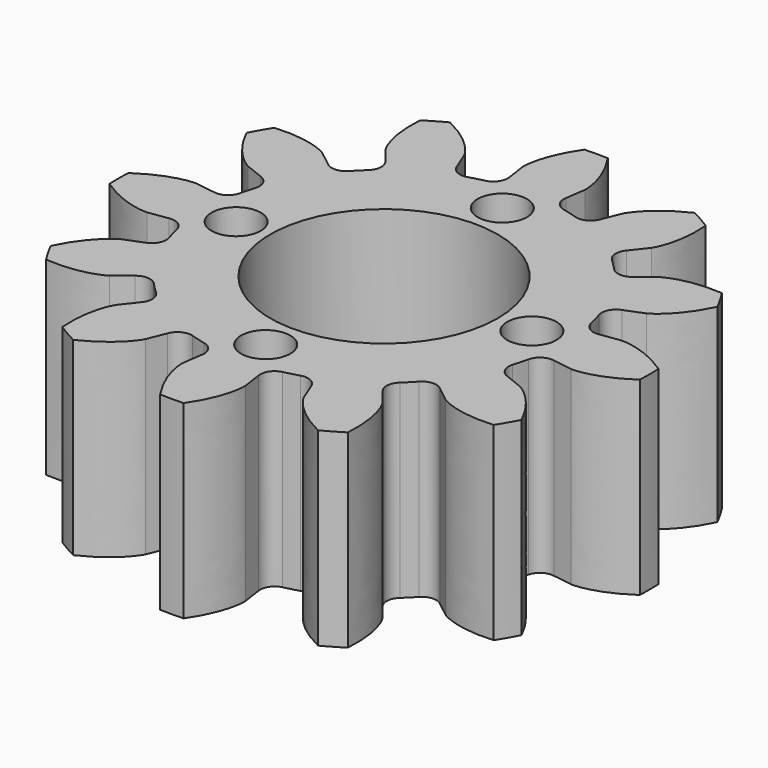
from build123d import *

# Parameters (mm, degrees)
EXTRUDE001_DEPTH   = 5
SKETCH001_R        = 3
HOLE001_DEPTH      = 25
SKETCH002_R        = 0.65
POCKET_DEPTH       = 5
POLARPATTERN_COUNT = 4


with BuildPart() as part:
    # InvoluteGear001 → Extrude001 (new body)
    with BuildSketch(Plane.XY):
        with BuildLine():
            Line((5.075568, -0.745328), (5.593622, -0.820636))
            add(Edge.make_bspline(
                [(5.593622, -0.820636), (5.662225, -0.823766), (5.937134, -0.826624), (6.422793, -0.700099), (6.993094, -0.308894)],
                knots=[0, 0, 0, 0, 0, 1, 1, 1, 1, 1], degree=4))
            ThreePointArc((6.993094, -0.308894), (6.999956, 0.000727), (6.993117, 0.310347))
            add(Edge.make_bspline(
                [(6.993117, 0.310347), (6.422793, 0.700099), (5.937134, 0.826624), (5.662225, 0.823766), (5.593622, 0.820636)],
                knots=[0, 0, 0, 0, 0, 1, 1, 1, 1, 1], degree=4))
            Line((5.593622, 0.820636), (5.075568, 0.745328))
            ThreePointArc((5.075568, 0.745328), (4.797245, 0.801779), (4.635779, 1.0354))
            ThreePointArc((4.635779, 1.0354), (4.588148, 1.22939), (4.532402, 1.421207))
            ThreePointArc((4.532402, 1.421207), (4.555425, 1.704262), (4.768234, 1.892311))
            Line((4.768234, 1.892311), (5.254537, 2.086119))
            add(Edge.make_bspline(
                [(5.254537, 2.086119), (5.315514, 2.117711), (5.555021, 2.25269), (5.912351, 2.605093), (6.210644, 3.229037)],
                knots=[0, 0, 0, 0, 0, 1, 1, 1, 1, 1], degree=4))
            ThreePointArc((6.210644, 3.229037), (6.061777, 3.500607), (5.901043, 3.765327))
            add(Edge.make_bspline(
                [(5.901043, 3.765327), (5.212252, 3.8177), (4.728397, 3.684444), (4.491748, 3.544515), (4.433901, 3.507503)],
                knots=[0, 0, 0, 0, 0, 1, 1, 1, 1, 1], degree=4))
            Line((4.433901, 3.507503), (4.022907, 3.183256))
            ThreePointArc((4.022907, 3.183256), (3.753647, 3.092983), (3.497002, 3.214572))
            ThreePointArc((3.497002, 3.214572), (3.358757, 3.358757), (3.214572, 3.497002))
            ThreePointArc((3.214572, 3.497002), (3.092983, 3.753647), (3.183256, 4.022907))
            Line((3.183256, 4.022907), (3.507503, 4.433901))
            add(Edge.make_bspline(
                [(3.507503, 4.433901), (3.544515, 4.491748), (3.684444, 4.728397), (3.8177, 5.212252), (3.764057, 5.90175)],
                knots=[0, 0, 0, 0, 0, 1, 1, 1, 1, 1], degree=4))
            ThreePointArc((3.764057, 5.90175), (3.499349, 6.062503), (3.22779, 6.211391))
            add(Edge.make_bspline(
                [(3.22779, 6.211391), (2.605093, 5.912351), (2.25269, 5.555021), (2.117711, 5.315514), (2.086119, 5.254537)],
                knots=[0, 0, 0, 0, 0, 1, 1, 1, 1, 1], degree=4))
            Line((2.086119, 5.254537), (1.892311, 4.768234))
            ThreePointArc((1.892311, 4.768234), (1.704262, 4.555425), (1.421207, 4.532402))
            ThreePointArc((1.421207, 4.532402), (1.22939, 4.588148), (1.0354, 4.635779))
            ThreePointArc((1.0354, 4.635779), (0.801779, 4.797245), (0.745328, 5.075568))
            Line((0.745328, 5.075568), (0.820636, 5.593622))
            add(Edge.make_bspline(
                [(0.820636, 5.593622), (0.823766, 5.662225), (0.826624, 5.937134), (0.700099, 6.422793), (0.308894, 6.993094)],
                knots=[0, 0, 0, 0, 0, 1, 1, 1, 1, 1], degree=4))
            ThreePointArc((0.308894, 6.993094), (-0.000727, 6.999956), (-0.310347, 6.993117))
            add(Edge.make_bspline(
                [(-0.310347, 6.993117), (-0.700099, 6.422793), (-0.826624, 5.937134), (-0.823766, 5.662225), (-0.820636, 5.593622)],
                knots=[0, 0, 0, 0, 0, 1, 1, 1, 1, 1], degree=4))
            Line((-0.820636, 5.593622), (-0.745328, 5.075568))
            ThreePointArc((-0.745328, 5.075568), (-0.801779, 4.797245), (-1.0354, 4.635779))
            ThreePointArc((-1.0354, 4.635779), (-1.22939, 4.588148), (-1.421207, 4.532402))
            ThreePointArc((-1.421207, 4.532402), (-1.704262, 4.555425), (-1.892311, 4.768234))
            Line((-1.892311, 4.768234), (-2.086119, 5.254537))
            add(Edge.make_bspline(
                [(-2.086119, 5.254537), (-2.117711, 5.315514), (-2.25269, 5.555021), (-2.605093, 5.912351), (-3.229037, 6.210644)],
                knots=[0, 0, 0, 0, 0, 1, 1, 1, 1, 1], degree=4))
            ThreePointArc((-3.229037, 6.210644), (-3.500607, 6.061777), (-3.765327, 5.901043))
            add(Edge.make_bspline(
                [(-3.765327, 5.901043), (-3.8177, 5.212252), (-3.684444, 4.728397), (-3.544515, 4.491748), (-3.507503, 4.433901)],
                knots=[0, 0, 0, 0, 0, 1, 1, 1, 1, 1], degree=4))
            Line((-3.507503, 4.433901), (-3.183256, 4.022907))
            ThreePointArc((-3.183256, 4.022907), (-3.092983, 3.753647), (-3.214572, 3.497002))
            ThreePointArc((-3.214572, 3.497002), (-3.358757, 3.358757), (-3.497002, 3.214572))
            ThreePointArc((-3.497002, 3.214572), (-3.753647, 3.092983), (-4.022907, 3.183256))
            Line((-4.022907, 3.183256), (-4.433901, 3.507503))
            add(Edge.make_bspline(
                [(-4.433901, 3.507503), (-4.491748, 3.544515), (-4.728397, 3.684444), (-5.212252, 3.8177), (-5.90175, 3.764057)],
                knots=[0, 0, 0, 0, 0, 1, 1, 1, 1, 1], degree=4))
            ThreePointArc((-5.90175, 3.764057), (-6.062503, 3.499349), (-6.211391, 3.22779))
            add(Edge.make_bspline(
                [(-6.211391, 3.22779), (-5.912351, 2.605093), (-5.555021, 2.25269), (-5.315514, 2.117711), (-5.254537, 2.086119)],
                knots=[0, 0, 0, 0, 0, 1, 1, 1, 1, 1], degree=4))
            Line((-5.254537, 2.086119), (-4.768234, 1.892311))
            ThreePointArc((-4.768234, 1.892311), (-4.555425, 1.704262), (-4.532402, 1.421207))
            ThreePointArc((-4.532402, 1.421207), (-4.588148, 1.22939), (-4.635779, 1.0354))
            ThreePointArc((-4.635779, 1.0354), (-4.797245, 0.801779), (-5.075568, 0.745328))
            Line((-5.075568, 0.745328), (-5.593622, 0.820636))
            add(Edge.make_bspline(
                [(-5.593622, 0.820636), (-5.662225, 0.823766), (-5.937134, 0.826624), (-6.422793, 0.700099), (-6.993094, 0.308894)],
                knots=[0, 0, 0, 0, 0, 1, 1, 1, 1, 1], degree=4))
            ThreePointArc((-6.993094, 0.308894), (-6.999956, -0.000727), (-6.993117, -0.310347))
            add(Edge.make_bspline(
                [(-6.993117, -0.310347), (-6.422793, -0.700099), (-5.937134, -0.826624), (-5.662225, -0.823766), (-5.593622, -0.820636)],
                knots=[0, 0, 0, 0, 0, 1, 1, 1, 1, 1], degree=4))
            Line((-5.593622, -0.820636), (-5.075568, -0.745328))
            ThreePointArc((-5.075568, -0.745328), (-4.797245, -0.801779), (-4.635779, -1.0354))
            ThreePointArc((-4.635779, -1.0354), (-4.588148, -1.22939), (-4.532402, -1.421207))
            ThreePointArc((-4.532402, -1.421207), (-4.555425, -1.704262), (-4.768234, -1.892311))
            Line((-4.768234, -1.892311), (-5.254537, -2.086119))
            add(Edge.make_bspline(
                [(-5.254537, -2.086119), (-5.315514, -2.117711), (-5.555021, -2.25269), (-5.912351, -2.605093), (-6.210644, -3.229037)],
                knots=[0, 0, 0, 0, 0, 1, 1, 1, 1, 1], degree=4))
            ThreePointArc((-6.210644, -3.229037), (-6.061777, -3.500607), (-5.901043, -3.765327))
            add(Edge.make_bspline(
                [(-5.901043, -3.765327), (-5.212252, -3.8177), (-4.728397, -3.684444), (-4.491748, -3.544515), (-4.433901, -3.507503)],
                knots=[0, 0, 0, 0, 0, 1, 1, 1, 1, 1], degree=4))
            Line((-4.433901, -3.507503), (-4.022907, -3.183256))
            ThreePointArc((-4.022907, -3.183256), (-3.753647, -3.092983), (-3.497002, -3.214572))
            ThreePointArc((-3.497002, -3.214572), (-3.358757, -3.358757), (-3.214572, -3.497002))
            ThreePointArc((-3.214572, -3.497002), (-3.092983, -3.753647), (-3.183256, -4.022907))
            Line((-3.183256, -4.022907), (-3.507503, -4.433901))
            add(Edge.make_bspline(
                [(-3.507503, -4.433901), (-3.544515, -4.491748), (-3.684444, -4.728397), (-3.8177, -5.212252), (-3.764057, -5.90175)],
                knots=[0, 0, 0, 0, 0, 1, 1, 1, 1, 1], degree=4))
            ThreePointArc((-3.764057, -5.90175), (-3.499349, -6.062503), (-3.22779, -6.211391))
            add(Edge.make_bspline(
                [(-3.22779, -6.211391), (-2.605093, -5.912351), (-2.25269, -5.555021), (-2.117711, -5.315514), (-2.086119, -5.254537)],
                knots=[0, 0, 0, 0, 0, 1, 1, 1, 1, 1], degree=4))
            Line((-2.086119, -5.254537), (-1.892311, -4.768234))
            ThreePointArc((-1.892311, -4.768234), (-1.704262, -4.555425), (-1.421207, -4.532402))
            ThreePointArc((-1.421207, -4.532402), (-1.22939, -4.588148), (-1.0354, -4.635779))
            ThreePointArc((-1.0354, -4.635779), (-0.801779, -4.797245), (-0.745328, -5.075568))
            Line((-0.745328, -5.075568), (-0.820636, -5.593622))
            add(Edge.make_bspline(
                [(-0.820636, -5.593622), (-0.823766, -5.662225), (-0.826624, -5.937134), (-0.700099, -6.422793), (-0.308894, -6.993094)],
                knots=[0, 0, 0, 0, 0, 1, 1, 1, 1, 1], degree=4))
            ThreePointArc((-0.308894, -6.993094), (0.000727, -6.999956), (0.310347, -6.993117))
            add(Edge.make_bspline(
                [(0.310347, -6.993117), (0.700099, -6.422793), (0.826624, -5.937134), (0.823766, -5.662225), (0.820636, -5.593622)],
                knots=[0, 0, 0, 0, 0, 1, 1, 1, 1, 1], degree=4))
            Line((0.820636, -5.593622), (0.745328, -5.075568))
            ThreePointArc((0.745328, -5.075568), (0.801779, -4.797245), (1.0354, -4.635779))
            ThreePointArc((1.0354, -4.635779), (1.22939, -4.588148), (1.421207, -4.532402))
            ThreePointArc((1.421207, -4.532402), (1.704262, -4.555425), (1.892311, -4.768234))
            Line((1.892311, -4.768234), (2.086119, -5.254537))
            add(Edge.make_bspline(
                [(2.086119, -5.254537), (2.117711, -5.315514), (2.25269, -5.555021), (2.605093, -5.912351), (3.229037, -6.210644)],
                knots=[0, 0, 0, 0, 0, 1, 1, 1, 1, 1], degree=4))
            ThreePointArc((3.229037, -6.210644), (3.500607, -6.061777), (3.765327, -5.901043))
            add(Edge.make_bspline(
                [(3.765327, -5.901043), (3.8177, -5.212252), (3.684444, -4.728397), (3.544515, -4.491748), (3.507503, -4.433901)],
                knots=[0, 0, 0, 0, 0, 1, 1, 1, 1, 1], degree=4))
            Line((3.507503, -4.433901), (3.183256, -4.022907))
            ThreePointArc((3.183256, -4.022907), (3.092983, -3.753647), (3.214572, -3.497002))
            ThreePointArc((3.214572, -3.497002), (3.358757, -3.358757), (3.497002, -3.214572))
            ThreePointArc((3.497002, -3.214572), (3.753647, -3.092983), (4.022907, -3.183256))
            Line((4.022907, -3.183256), (4.433901, -3.507503))
            add(Edge.make_bspline(
                [(4.433901, -3.507503), (4.491748, -3.544515), (4.728397, -3.684444), (5.212252, -3.8177), (5.90175, -3.764057)],
                knots=[0, 0, 0, 0, 0, 1, 1, 1, 1, 1], degree=4))
            ThreePointArc((5.90175, -3.764057), (6.062503, -3.499349), (6.211391, -3.22779))
            add(Edge.make_bspline(
                [(6.211391, -3.22779), (5.912351, -2.605093), (5.555021, -2.25269), (5.315514, -2.117711), (5.254537, -2.086119)],
                knots=[0, 0, 0, 0, 0, 1, 1, 1, 1, 1], degree=4))
            Line((5.254537, -2.086119), (4.768234, -1.892311))
            ThreePointArc((4.768234, -1.892311), (4.555425, -1.704262), (4.532402, -1.421207))
            ThreePointArc((4.532402, -1.421207), (4.588148, -1.22939), (4.635779, -1.0354))
            ThreePointArc((4.635779, -1.0354), (4.797245, -0.801779), (5.075568, -0.745328))
        make_face()
    extrude(amount=EXTRUDE001_DEPTH)

    # Sketch001 (on Face1 of CopyExtrude001) → Hole001 (cut)
    with BuildSketch(Plane.XY.offset(5)):
        Circle(SKETCH001_R)
    extrude(amount=-HOLE001_DEPTH, mode=Mode.SUBTRACT)

    # Sketch002 (on Face5 of Hole001) → Pocket (cut)
    with BuildSketch(Plane.XY.offset(5)):
        with Locations((0, 3.9)):
            Circle(SKETCH002_R)
    pocket = extrude(amount=-POCKET_DEPTH, mode=Mode.SUBTRACT)

    # PolarPattern: Pocket ×4 about axis
    polarpattern_axis = Axis((0, 0, 5), (0, 0, 1))
    for i in range(1, POLARPATTERN_COUNT):
        add(pocket.rotate(polarpattern_axis, i * 360 / POLARPATTERN_COUNT), mode=Mode.SUBTRACT)


solid = part.part
